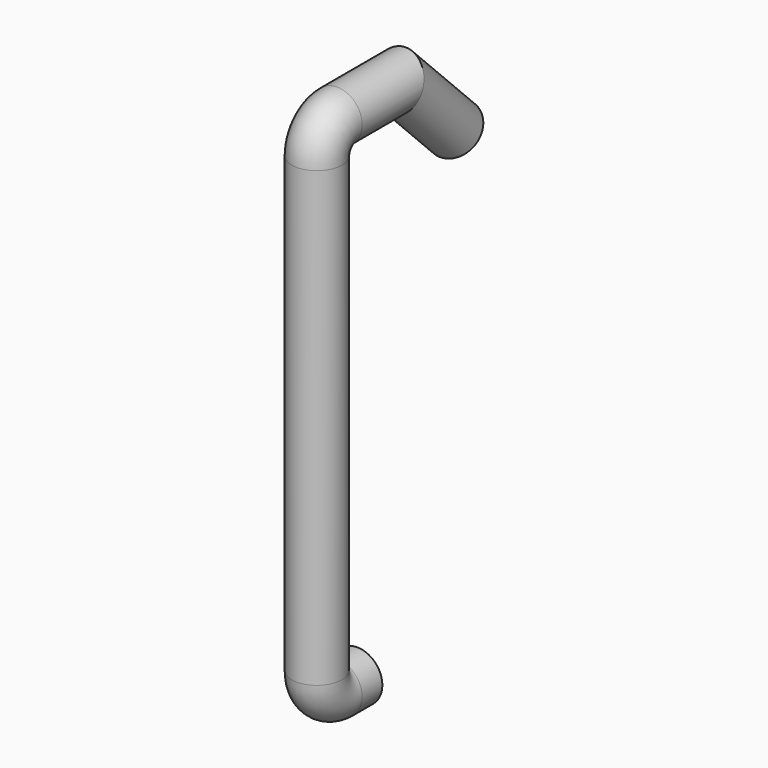
from build123d import *

# Parameters (mm, degrees)
F0_R = 6.35


with BuildPart() as f2:
    # F2: sweep along a path in F1
    with BuildLine(Plane.YZ) as f2_path:
        Line((0, 0), (-6.35, 0))
        ThreePointArc((-6.35, 0), (-10.8401280605, 1.8598719395), (-12.7, 6.35))
        Line((-12.7, 6.35), (-12.7, 120.65))
        ThreePointArc((-12.7, 120.65), (-10.8401280605, 125.1401280605), (-6.35, 127))
        Line((-6.35, 127), (12.7, 127))
        Line((12.7, 127), (30.6605122421, 109.0394877579))
    # F0 (on Front) → F2 (sweep)
    with BuildSketch(Plane.XZ):
        Circle(F0_R)
    sweep(path=f2_path.line, transition=Transition.RIGHT)


solid = f2.part
